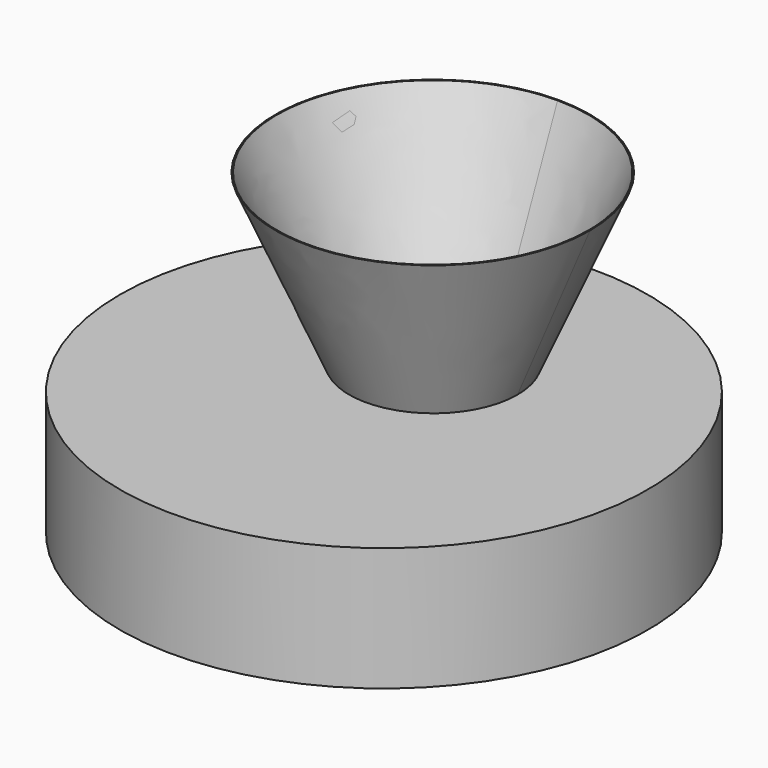
from build123d import *

# Parameters (mm, degrees)
F0_W     = 235
F0_H     = 110
F2_T     = -1
F5_R     = 140
F7_T     = -1
F8_DEPTH = 25


with BuildPart() as f1:
    # F0 (on Front) → F1 (revolve)
    with BuildSketch(Plane.XZ):
        with Locations((-117.5, 55)):
            Rectangle(F0_W, F0_H)
    revolve(axis=Axis((0, 0, 55), (0, 0, -1)))

    # F2
    f2_openings = [f1.faces().sort_by_distance(p)[0] for p in [
        (0, 0, 0),
    ]]
    offset(amount=F2_T, openings=f2_openings)

    # F3 (on face) → F6 section 0
    with BuildSketch(Plane.XY.offset(110)):
        with BuildLine():
            ThreePointArc((75, 55), (53.033008589, 108.033008589), (0, 130))
            ThreePointArc((0, 130), (-53.033008589, 1.966991411), (75, 55))
        make_face()
    # F5 (on offset) → F6 section 1
    with BuildSketch(Plane.XY.offset(260)):
        with Locations((0, 54.3775893748)):
            Circle(F5_R)
    loft()

    # F7
    f7_openings = [f1.faces().sort_by_distance(p)[0] for p in [
        (0, 54.377589, 260),
    ]]
    offset(amount=F7_T, openings=f7_openings, kind=Kind.INTERSECTION)

    # F3 (on face) → F8 (cut)
    with BuildSketch(Plane.XY.offset(110)):
        with BuildLine():
            ThreePointArc((75, 55), (53.033008589, 108.033008589), (0, 130))
            ThreePointArc((0, 130), (-53.033008589, 1.966991411), (75, 55))
        make_face()
    extrude(amount=-F8_DEPTH, mode=Mode.SUBTRACT)


solid = f1.part
